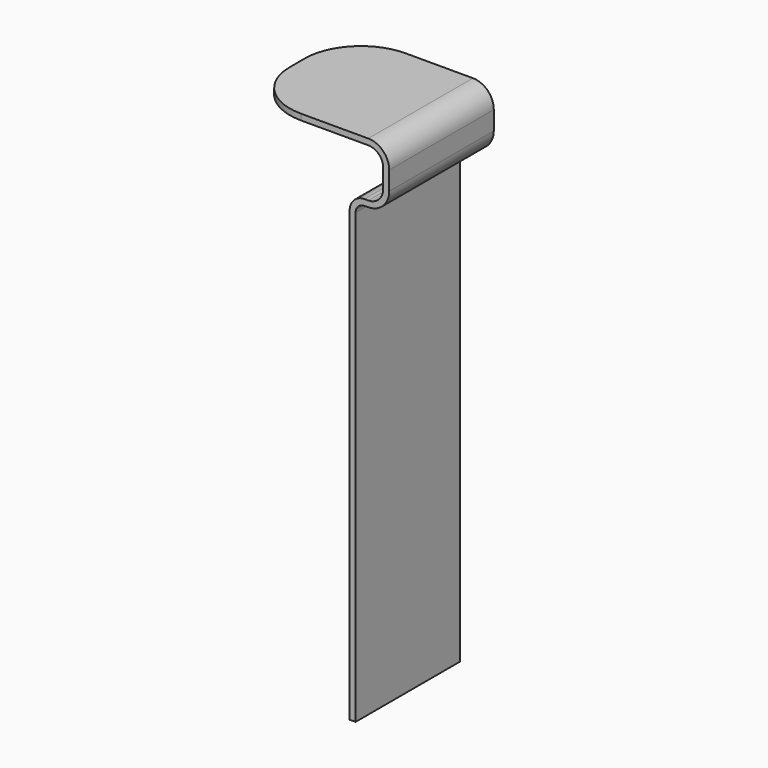
from build123d import *

# Parameters (mm, degrees)
F1_DEPTH = 44.45
F2_R     = 19.05


with BuildPart() as f1:
    # F0 (on Front) → F1 (new body)
    with BuildSketch(Plane.XZ):
        with BuildLine():
            Line((-39.009379, 65.874033), (-39.009379, 63.842033))
            Line((-39.009379, 63.842033), (2.900621, 63.842033))
            ThreePointArc((2.900621, 63.842033), (6.492723, 62.354135), (7.980621, 58.762033))
            Line((7.980621, 58.762033), (7.980621, 52.412033))
            ThreePointArc((7.980621, 52.412033), (6.492723, 48.81993), (2.900621, 47.332033))
            Line((2.900621, 47.332033), (1.630621, 47.332033))
            ThreePointArc((1.630621, 47.332033), (-1.961481, 45.844135), (-3.449379, 42.252033))
            Line((-3.449379, 42.252033), (-3.449379, -110.147967))
            Line((-3.449379, -110.147967), (-1.417379, -110.147967))
            Line((-1.417379, -110.147967), (-1.417379, 42.252033))
            ThreePointArc((-1.417379, 42.252033), (-0.52464, 44.407294), (1.630621, 45.300033))
            Line((1.630621, 45.300033), (2.900621, 45.300033))
            ThreePointArc((2.900621, 45.300033), (7.929564, 47.383089), (10.012621, 52.412033))
            Line((10.012621, 52.412033), (10.012621, 58.762033))
            ThreePointArc((10.012621, 58.762033), (7.929564, 63.790976), (2.900621, 65.874033))
            Line((2.900621, 65.874033), (-39.009379, 65.874033))
        make_face()
    extrude(amount=F1_DEPTH)

    # F2
    f2_edges = [f1.edges().sort_by_distance(p)[0] for p in [
        (-39.009379, 0, 64.858033),
        (-39.009379, -44.45, 64.858033),
    ]]
    fillet(f2_edges, radius=F2_R)


solid = f1.part
